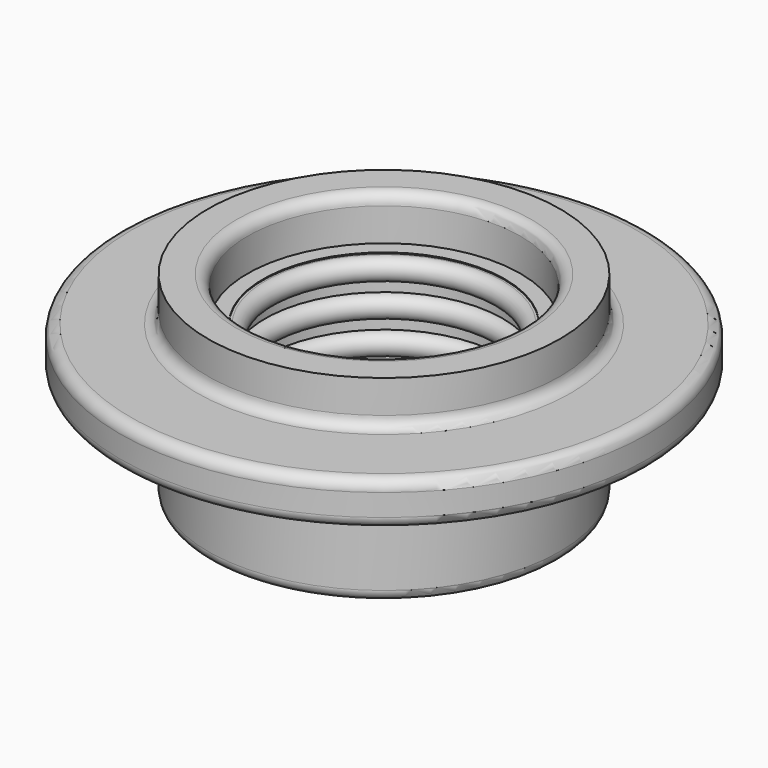
from build123d import *

# Parameters (mm, degrees)
F2_R = 0.5


with BuildPart() as f1:
    # F0 (on Front) → F1 (revolve)
    with BuildSketch(Plane.XZ):
        Polygon((5.5, 7), (5.5, 0), (8, 0), (8, 5), (12, 5), (12, 7), (8, 7), (8, 9), (6.2, 9), (6.2, 7), align=None)
    revolve(axis=Axis((0, 0, 3.496905), (0, 0, 1)))

    # F2
    f2_edges = [f1.edges().sort_by_distance(p)[0] for p in [
        (-8, 0, 7),
        (-6.2, 0, 9),
        (-12, 0, 7),
        (-12, 0, 5),
        (-8, 0, 0),
        (-5.5, 0, 0),
    ]]
    fillet(f2_edges, radius=F2_R)

    # F3 (on Front) → F4 (revolve)
    with BuildSketch(Plane.XZ):
        with BuildLine():
            Line((5.396353, 2.96337), (5.396353, 2.46337))
            ThreePointArc((5.396353, 2.46337), (4.896353, 1.96337), (5.396353, 1.46337))
            Line((5.396353, 1.46337), (5.629015, 1.46337))
            Line((5.629015, 1.46337), (5.629015, 6.96337))
            Line((5.629015, 6.96337), (5.396353, 6.96337))
            ThreePointArc((5.396353, 6.96337), (4.896353, 6.46337), (5.396353, 5.96337))
            Line((5.396353, 5.96337), (5.396353, 5.46337))
            ThreePointArc((5.396353, 5.46337), (4.896353, 4.96337), (5.396353, 4.46337))
            Line((5.396353, 4.46337), (5.396353, 3.96337))
            ThreePointArc((5.396353, 3.96337), (4.896353, 3.46337), (5.396353, 2.96337))
        make_face()
    revolve(axis=Axis((0, 0, 4.75897), (0, 0, -1)))


solid = f1.part
